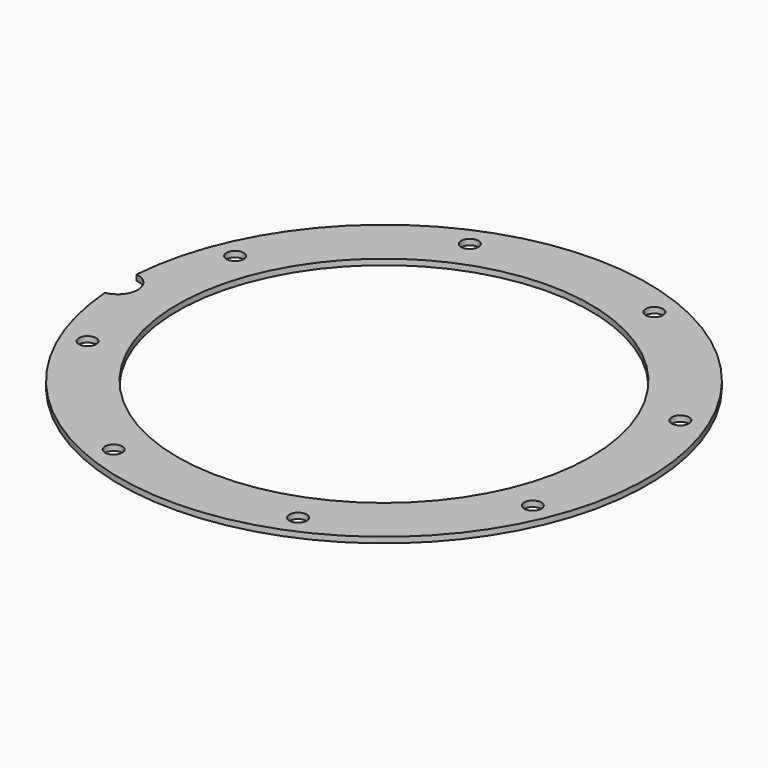
from build123d import *

# Parameters (mm, degrees)
BOX385_W                     = 6
BOX385_H                     = 8
BOX385_DEPTH                 = 2
BOX385_PLACEMENT_ANGLE       = 45
BOX387_W                     = 6
BOX387_H                     = 8
BOX387_DEPTH                 = 2
BOX378_W                     = 6
BOX378_H                     = 8
BOX378_DEPTH                 = 2
BOX390_W                     = 6
BOX390_H                     = 8
BOX390_DEPTH                 = 2
BOX390_PLACEMENT_ANGLE       = 135
BOX388_W                     = 6
BOX388_H                     = 8
BOX388_DEPTH                 = 2
BOX392_W                     = 6
BOX392_H                     = 8
BOX392_DEPTH                 = 2
BOX392_PLACEMENT_ANGLE       = 225
BOX381_W                     = 6
BOX381_H                     = 8
BOX381_DEPTH                 = 2
BOX391_W                     = 6
BOX391_H                     = 8
BOX391_DEPTH                 = 2
BOX391_PLACEMENT_ANGLE       = 45
COMPOUND859_PLACEMENT_ANGLE  = 22.5
CYLINDER1080_R               = 1.5
CYLINDER1080_DEPTH           = 12
CYLINDER1080_PLACEMENT_ANGLE = 45
CYLINDER1088_R               = 1.5
CYLINDER1088_DEPTH           = 12
CYLINDER1086_R               = 1.5
CYLINDER1086_DEPTH           = 12
CYLINDER1086_PLACEMENT_ANGLE = 135
CYLINDER1085_R               = 1.5
CYLINDER1085_DEPTH           = 12
CYLINDER1087_R               = 1.5
CYLINDER1087_DEPTH           = 12
CYLINDER1087_PLACEMENT_ANGLE = 225
CYLINDER1084_R               = 1.5
CYLINDER1084_DEPTH           = 12
CYLINDER1079_R               = 1.5
CYLINDER1079_DEPTH           = 12
CYLINDER1079_PLACEMENT_ANGLE = 45
CYLINDER1082_R               = 1.5
CYLINDER1082_DEPTH           = 12
COMPOUND860_PLACEMENT_ANGLE  = 22.5
CYLINDER1077_R               = 3.5
CYLINDER1077_DEPTH           = 20
TUBE097_R                    = 46
TUBE097_R_2                  = 36
TUBE097_DEPTH                = 1


with BuildPart() as krychle385:
    # Box385 → Box385 (new body)
    with BuildSketch(Plane.XY):
        with Locations((3, 4)):
            Rectangle(BOX385_W, BOX385_H)
    extrude(amount=BOX385_DEPTH)


with BuildPart() as krychle385_1:
    # Box385 placement: moved
    add(krychle385.part.moved(Location((30.405592, -34.648232, 33))).rotate(Axis((30.405592, -34.648232, 33), (0, 0, 1)), BOX385_PLACEMENT_ANGLE))


with BuildPart() as krychle387:
    # Box387 → Box387 (new body)
    with BuildSketch(Plane(origin=(46, -3, 33), x_dir=(0, 1, 0), z_dir=(0, 0, 1))):
        with Locations((3, 4)):
            Rectangle(BOX387_W, BOX387_H)
    extrude(amount=BOX387_DEPTH)


with BuildPart() as krychle378:
    # Box378 → Box378 (new body)
    with BuildSketch(Plane(origin=(-3, -46, 33), x_dir=(1, 0, 0), z_dir=(0, 0, 1))):
        with Locations((3, 4)):
            Rectangle(BOX378_W, BOX378_H)
    extrude(amount=BOX378_DEPTH)


with BuildPart() as krychle390:
    # Box390 → Box390 (new body)
    with BuildSketch(Plane.XY):
        with Locations((3, 4)):
            Rectangle(BOX390_W, BOX390_H)
    extrude(amount=BOX390_DEPTH)


with BuildPart() as krychle390_1:
    # Box390 placement: moved
    add(krychle390.part.moved(Location((34.648232, 30.405592, 33))).rotate(Axis((34.648232, 30.405592, 33), (0, 0, 1)), BOX390_PLACEMENT_ANGLE))


with BuildPart() as krychle388:
    # Box388 → Box388 (new body)
    with BuildSketch(Plane(origin=(3, 46, 33), x_dir=(-1, 0, 0), z_dir=(0, 0, 1))):
        with Locations((3, 4)):
            Rectangle(BOX388_W, BOX388_H)
    extrude(amount=BOX388_DEPTH)


with BuildPart() as krychle392:
    # Box392 → Box392 (new body)
    with BuildSketch(Plane.XY):
        with Locations((3, 4)):
            Rectangle(BOX392_W, BOX392_H)
    extrude(amount=BOX392_DEPTH)


with BuildPart() as krychle392_1:
    # Box392 placement: moved
    add(krychle392.part.moved(Location((-30.405592, 34.648232, 33))).rotate(Axis((-30.405592, 34.648232, 33), (0, 0, 1)), BOX392_PLACEMENT_ANGLE))


with BuildPart() as krychle381:
    # Box381 → Box381 (new body)
    with BuildSketch(Plane(origin=(-46, 3, 33), x_dir=(0, -1, 0), z_dir=(0, 0, 1))):
        with Locations((3, 4)):
            Rectangle(BOX381_W, BOX381_H)
    extrude(amount=BOX381_DEPTH)


with BuildPart() as compound859:
    # Box391 → Box391 (new body)
    with BuildSketch(Plane.XY):
        with Locations((3, 4)):
            Rectangle(BOX391_W, BOX391_H)
    extrude(amount=BOX391_DEPTH)


with BuildPart() as compound859_1:
    # Box391 placement: moved
    add(compound859.part.moved(Location((-34.648232, -30.405592, 33))).rotate(Axis((-34.648232, -30.405592, 33), (0, 0, -1)), BOX391_PLACEMENT_ANGLE))

    # Compound859: union Krychle385, Krychle387, Krychle378, Krychle390, Krychle388, Krychle392, Krychle381
    add(krychle385_1.part)
    add(krychle387.part)
    add(krychle378.part)
    add(krychle390_1.part)
    add(krychle388.part)
    add(krychle392_1.part)
    add(krychle381.part)


with BuildPart() as compound859_2:
    # Compound859 placement: moved
    add(compound859_1.part.moved(Location((0, 0, 7))).rotate(Axis((0, 0, 7), (0, 0, 1)), COMPOUND859_PLACEMENT_ANGLE))


with BuildPart() as obj1:
    # Cylinder1080 → Cylinder1080 (new body)
    with BuildSketch(Plane.XY):
        Circle(CYLINDER1080_R)
    extrude(amount=CYLINDER1080_DEPTH)


with BuildPart() as obj1_1:
    # Cylinder1080 placement: moved
    add(obj1.part.moved(Location((29.698485, -29.698485, 33.5))).rotate(Axis((29.698485, -29.698485, 33.5), (0, 0, 1)), CYLINDER1080_PLACEMENT_ANGLE))


with BuildPart() as obj2:
    # Cylinder1088 → Cylinder1088 (new body)
    with BuildSketch(Plane(origin=(42, 0, 33.5), x_dir=(0, 1, 0), z_dir=(0, 0, 1))):
        Circle(CYLINDER1088_R)
    extrude(amount=CYLINDER1088_DEPTH)


with BuildPart() as obj3:
    # Cylinder1086 → Cylinder1086 (new body)
    with BuildSketch(Plane.XY):
        Circle(CYLINDER1086_R)
    extrude(amount=CYLINDER1086_DEPTH)


with BuildPart() as obj3_1:
    # Cylinder1086 placement: moved
    add(obj3.part.moved(Location((29.698485, 29.698485, 33.5))).rotate(Axis((29.698485, 29.698485, 33.5), (0, 0, 1)), CYLINDER1086_PLACEMENT_ANGLE))


with BuildPart() as obj4:
    # Cylinder1085 → Cylinder1085 (new body)
    with BuildSketch(Plane(origin=(0, 42, 33.5), x_dir=(-1, 0, 0), z_dir=(0, 0, 1))):
        Circle(CYLINDER1085_R)
    extrude(amount=CYLINDER1085_DEPTH)


with BuildPart() as obj5:
    # Cylinder1087 → Cylinder1087 (new body)
    with BuildSketch(Plane.XY):
        Circle(CYLINDER1087_R)
    extrude(amount=CYLINDER1087_DEPTH)


with BuildPart() as obj5_1:
    # Cylinder1087 placement: moved
    add(obj5.part.moved(Location((-29.698485, 29.698485, 33.5))).rotate(Axis((-29.698485, 29.698485, 33.5), (0, 0, 1)), CYLINDER1087_PLACEMENT_ANGLE))


with BuildPart() as obj6:
    # Cylinder1084 → Cylinder1084 (new body)
    with BuildSketch(Plane(origin=(-42, 0, 33.5), x_dir=(0, -1, 0), z_dir=(0, 0, 1))):
        Circle(CYLINDER1084_R)
    extrude(amount=CYLINDER1084_DEPTH)


with BuildPart() as obj7:
    # Cylinder1079 → Cylinder1079 (new body)
    with BuildSketch(Plane.XY):
        Circle(CYLINDER1079_R)
    extrude(amount=CYLINDER1079_DEPTH)


with BuildPart() as obj7_1:
    # Cylinder1079 placement: moved
    add(obj7.part.moved(Location((-29.698485, -29.698485, 33.5))).rotate(Axis((-29.698485, -29.698485, 33.5), (0, 0, -1)), CYLINDER1079_PLACEMENT_ANGLE))


with BuildPart() as compound860:
    # Cylinder1082 → Cylinder1082 (new body)
    with BuildSketch(Plane(origin=(0, -42, 33.5), x_dir=(1, 0, 0), z_dir=(0, 0, 1))):
        Circle(CYLINDER1082_R)
    extrude(amount=CYLINDER1082_DEPTH)

    # Compound860: union obj1, obj2, obj3, obj4, obj5, obj6, obj7
    add(obj1_1.part)
    add(obj2.part)
    add(obj3_1.part)
    add(obj4.part)
    add(obj5_1.part)
    add(obj6.part)
    add(obj7_1.part)


with BuildPart() as compound860_1:
    # Compound860 placement: moved
    add(compound860.part.moved(Location((0, 0, 4))).rotate(Axis((0, 0, 4), (0, 0, 1)), COMPOUND860_PLACEMENT_ANGLE))


with BuildPart() as obj8:
    # Cylinder1077 → Cylinder1077 (new body)
    with BuildSketch(Plane(origin=(-46.4, 0, 34), x_dir=(1, 0, 0), z_dir=(0, 0, 1))):
        Circle(CYLINDER1077_R)
    extrude(amount=CYLINDER1077_DEPTH)


with BuildPart() as cut402:
    # Tube097 → Tube097 (new body)
    with BuildSketch(Plane.XY.offset(45)):
        Circle(TUBE097_R)
        Circle(TUBE097_R_2, mode=Mode.SUBTRACT)
    extrude(amount=TUBE097_DEPTH)

    # Cut404: cut obj8
    add(obj8.part, mode=Mode.SUBTRACT)

    # Cut405: cut Compound860
    add(compound860_1.part, mode=Mode.SUBTRACT)

    # Cut402: cut Compound859
    add(compound859_2.part, mode=Mode.SUBTRACT)


solid = cut402.part
